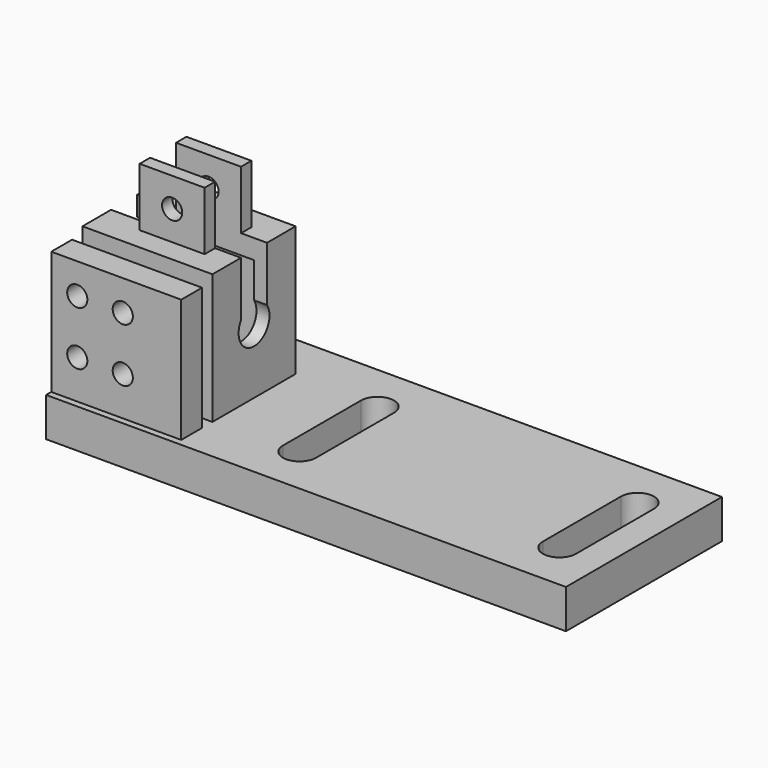
from build123d import *

# Parameters (mm, degrees)
F0_W      = 80
F0_H      = 30
F1_DEPTH  = 6
F3_DEPTH  = 6.001
F4_W      = 20
F4_H      = 16
F5_DEPTH  = 20
F6_W      = 11.27
F6_H      = 14.08
F7_DEPTH  = 18
F8_R      = 2.97
F9_DEPTH  = 62.001
F10_W     = 10
F10_H     = 9
F11_DEPTH = 9
F12_R     = 1.55
F13_DEPTH = 19.501
F14_W     = 20
F14_H     = 5
F15_DEPTH = 19
F16_W     = 20
F16_H     = 4
F17_DEPTH = 25
F18_R     = 1.55
F19_DEPTH = 4


with BuildPart() as f1:
    # F0 (on Top) → F1 (new body)
    with BuildSketch(Plane.XY):
        Rectangle(F0_W, F0_H)
    extrude(amount=F1_DEPTH)

    # F2 (on face) → F3 (cut, through all)
    with BuildSketch(Plane.XY.offset(6)):
        with BuildLine():
            Line((35.55, -7.5), (35.55, 7.5))
            ThreePointArc((35.55, 7.5), (33, 10.05), (30.45, 7.5))
            Line((30.45, 7.5), (30.45, -7.5))
            ThreePointArc((30.45, -7.5), (33, -10.05), (35.55, -7.5))
        make_face()
        with BuildLine():
            Line((-4.45, -7.5), (-4.45, 7.5))
            ThreePointArc((-4.45, 7.5), (-7, 10.05), (-9.55, 7.5))
            Line((-9.55, 7.5), (-9.55, -7.5))
            ThreePointArc((-9.55, -7.5), (-7, -10.05), (-4.45, -7.5))
        make_face()
    extrude(amount=-F3_DEPTH, mode=Mode.SUBTRACT)

    # F4 (on face) → F5 (join)
    with BuildSketch(Plane.XY.offset(6)):
        with Locations((-30, 0)):
            Rectangle(F4_W, F4_H)
    extrude(amount=F5_DEPTH)

    # F6 (on face) → F7 (cut)
    with BuildSketch(Plane(origin=(-40, 0, 0), x_dir=(0, -1, 0), z_dir=(-1, 0, 0))):
        with Locations((0, 15.96)):
            Rectangle(F6_W, F6_H)
    extrude(amount=-F7_DEPTH, mode=Mode.SUBTRACT)

    # F8 (on face) → F9 (cut, through all)
    with BuildSketch(Plane(origin=(-22, 0, 0), x_dir=(0, -1, 0), z_dir=(-1, 0, 0))):
        with Locations((0, 15.96)):
            Circle(F8_R)
    extrude(amount=-F9_DEPTH, mode=Mode.SUBTRACT)

    # F10 (on face) → F11 (join)
    with BuildSketch(Plane.XY.offset(26)):
        with Locations((-29, 0)):
            Rectangle(F10_W, F10_H)
    extrude(amount=F11_DEPTH)

    # F12 (on face) → F13 (cut, through all)
    with BuildSketch(Plane.XZ.offset(4.5)):
        with Locations((-29, 30.5)):
            Circle(F12_R)
    extrude(amount=-F13_DEPTH, mode=Mode.SUBTRACT)

    # F14 (on face) → F15 (cut)
    with BuildSketch(Plane.XY.offset(35)):
        with Locations((-30, 0)):
            Rectangle(F14_W, F14_H)
    extrude(amount=-F15_DEPTH, mode=Mode.SUBTRACT)

    # F16 (on Top) → F17 (join)
    with BuildSketch(Plane.XY):
        with Locations((-30, -12)):
            Rectangle(F16_W, F16_H)
    extrude(amount=F17_DEPTH)

    # F18 (on face) → F19 (cut)
    with BuildSketch(Plane.XZ.offset(14)):
        with Locations((-36, 20.29)):
            Circle(F18_R)
        with Locations((-36, 11.99)):
            Circle(F18_R)
        with Locations((-29, 20.29)):
            Circle(F18_R)
        with Locations((-29, 11.99)):
            Circle(F18_R)
    extrude(amount=-F19_DEPTH, mode=Mode.SUBTRACT)


solid = f1.part
